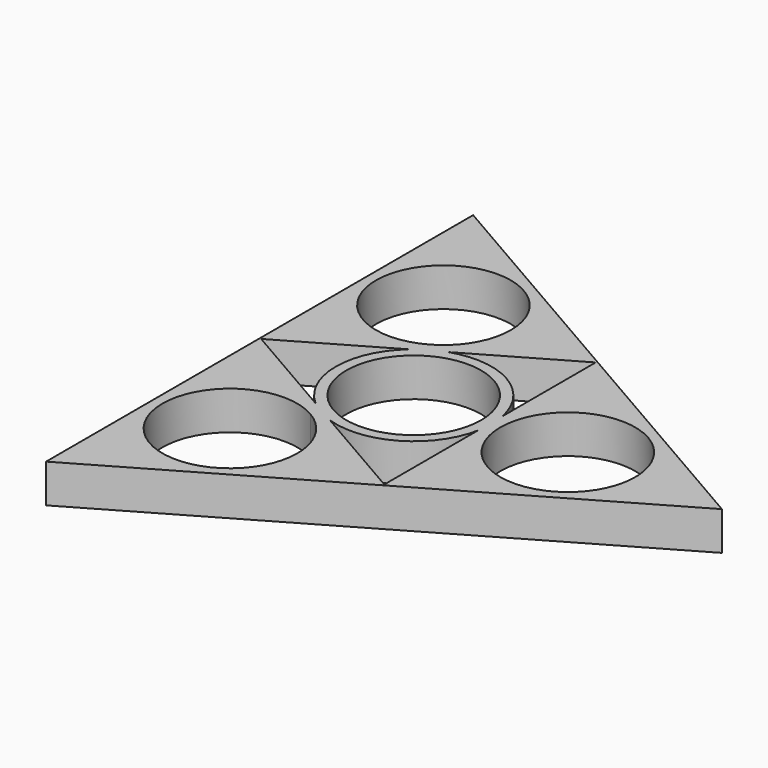
from build123d import *

# Parameters (mm, degrees)
F1_DEPTH = 6.35
F3_DEPTH = 1.27
F5_DEPTH = 6.35
F6_R     = 12.827
F6_R_2   = 11.1125
F7_DEPTH = 6.35


with BuildPart() as f1:
    # F0 (on Top) → F1 (new body)
    with BuildSketch(Plane.XY):
        Polygon((50.8, 0), (12.7, 21.9970452561), (12.7, 0), (12.7, -21.9970452561), align=None)
        with BuildLine():
            ThreePointArc((36.5125, 0), (25.4, -11.1125), (14.2875, 0))
            ThreePointArc((14.2875, 0), (25.4, 11.1125), (36.5125, 0))
        make_face(mode=Mode.SUBTRACT)
        with BuildLine():
            Line((12.7, 0), (12.7, 21.9970452561))
            Line((12.7, 21.9970452561), (-6.35, 10.9985226281))
            Line((-6.35, 10.9985226281), (-5.55625, 9.6237072996))
            ThreePointArc((-5.55625, 9.6237072996), (5.55625, 9.6237072996), (11.1125, 0))
            Line((11.1125, 0), (12.7, 0))
        make_face()
        Polygon((-6.35, 10.9985226281), (12.7, 21.9970452561), (-25.4, 43.9940905122), (-25.4, 0), align=None)
        with BuildLine():
            ThreePointArc((-1.5875, 21.9970452561), (-3.0762927004, 16.4407952561), (-7.14375, 12.3733379566))
            ThreePointArc((-7.14375, 12.3733379566), (-22.3237072996, 27.5532952561), (-1.5875, 21.9970452561))
        make_face(mode=Mode.SUBTRACT)
        with BuildLine():
            Line((12.7, -21.9970452561), (12.7, 0))
            Line((12.7, 0), (11.1125, 0))
            ThreePointArc((11.1125, 0), (5.55625, -9.6237072996), (-5.55625, -9.6237072996))
            Line((-5.55625, -9.6237072996), (-6.35, -10.9985226281))
            Line((-6.35, -10.9985226281), (12.7, -21.9970452561))
        make_face()
        with BuildLine():
            Line((-5.55625, 9.6237072996), (-6.35, 10.9985226281))
            Line((-6.35, 10.9985226281), (-25.4, 0))
            Line((-25.4, 0), (-6.35, -10.9985226281))
            Line((-6.35, -10.9985226281), (-5.55625, -9.6237072996))
            ThreePointArc((-5.55625, -9.6237072996), (-11.1125, 0), (-5.55625, 9.6237072996))
        make_face()
        Polygon((-25.4, -43.9940905122), (12.7, -21.9970452561), (-6.35, -10.9985226281), (-25.4, 0), align=None)
        with BuildLine():
            ThreePointArc((-1.5875, -21.9970452561), (-22.3237072996, -27.5532952561), (-7.14375, -12.3733379566))
            ThreePointArc((-7.14375, -12.3733379566), (-3.0762927004, -16.4407952561), (-1.5875, -21.9970452561))
        make_face(mode=Mode.SUBTRACT)
    extrude(amount=F1_DEPTH)

    # F2 (on face) → F3 (cut)
    with BuildSketch(Plane.XY.offset(6.35)):
        Polygon((12.573, -21.7770748036), (12.573, 21.7770748036), (-25.146, 0), align=None)
        Polygon((-22.8768289089, 0), (11.4384144545, 19.8119149932), (11.4384144545, -19.8119149932), align=None, mode=Mode.SUBTRACT)
    extrude(amount=-F3_DEPTH, mode=Mode.SUBTRACT)

    # F4 (on face) → F5 (cut)
    with BuildSketch(Plane(origin=(0, 0, 0), x_dir=(1, 0, 0), z_dir=(0, 0, -1))):
        with BuildLine():
            Line((12.573, 2.54), (12.573, 21.7770748036))
            Line((12.573, 21.7770748036), (-4.0867954744, 12.1585374018))
            ThreePointArc((-4.0867954744, 12.1585374018), (6.4135, 11.1085078543), (12.573, 2.54))
        make_face()
        with BuildLine():
            ThreePointArc((12.827, 0), (12.7633420388, 1.2763342039), (12.573, 2.54))
            Line((12.573, 2.54), (12.573, -2.54))
            ThreePointArc((12.573, -2.54), (12.7633420388, -1.2763342039), (12.827, 0))
        make_face()
        with BuildLine():
            Line((12.573, -2.54), (12.573, 2.54))
            ThreePointArc((12.573, 2.54), (6.4135, 11.1085078543), (-4.0867954744, 12.1585374018))
            Line((-4.0867954744, 12.1585374018), (-8.4862045256, 9.6185374018))
            ThreePointArc((-8.4862045256, 9.6185374018), (-12.827, 0), (-8.4862045256, -9.6185374018))
            Line((-8.4862045256, -9.6185374018), (-4.0867954744, -12.1585374018))
            ThreePointArc((-4.0867954744, -12.1585374018), (6.4135, -11.1085078543), (12.573, -2.54))
        make_face()
        with BuildLine():
            Line((-8.4862045256, 9.6185374018), (-4.0867954744, 12.1585374018))
            ThreePointArc((-4.0867954744, 12.1585374018), (-6.4135, 11.1085078543), (-8.4862045256, 9.6185374018))
        make_face()
        with BuildLine():
            Line((12.573, -21.7770748036), (12.573, -2.54))
            ThreePointArc((12.573, -2.54), (6.4135, -11.1085078543), (-4.0867954744, -12.1585374018))
            Line((-4.0867954744, -12.1585374018), (12.573, -21.7770748036))
        make_face()
        with BuildLine():
            ThreePointArc((-8.4862045256, -9.6185374018), (-12.827, 0), (-8.4862045256, 9.6185374018))
            Line((-8.4862045256, 9.6185374018), (-25.146, 0))
            Line((-25.146, 0), (-8.4862045256, -9.6185374018))
        make_face()
        with BuildLine():
            ThreePointArc((-8.4862045256, -9.6185374018), (-6.4135, -11.1085078543), (-4.0867954744, -12.1585374018))
            Line((-4.0867954744, -12.1585374018), (-8.4862045256, -9.6185374018))
        make_face()
    extrude(amount=-F5_DEPTH, mode=Mode.SUBTRACT)

    # F6 (on face) → F7 (join)
    with BuildSketch(Plane(origin=(0, 0, 0), x_dir=(1, 0, 0), z_dir=(0, 0, -1))):
        Circle(F6_R)
        Circle(F6_R_2, mode=Mode.SUBTRACT)
    extrude(amount=-F7_DEPTH)


solid = f1.part
